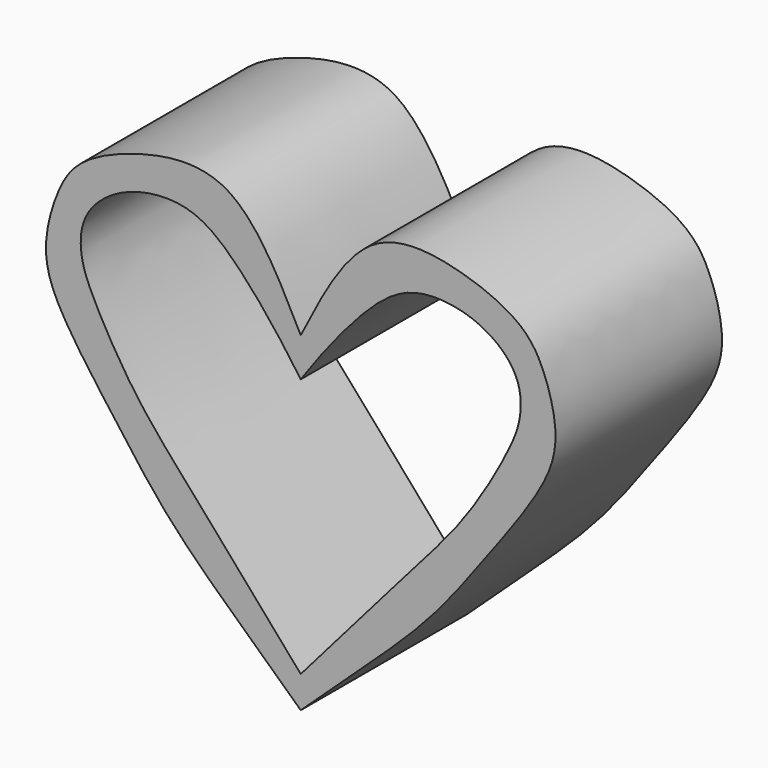
from build123d import *

# Parameters (mm, degrees)
F1_DEPTH = 19.05
F3_DEPTH = 19.05


with BuildPart() as f1:
    # F0 (on Front) → F1 (new body)
    with BuildSketch(Plane.XZ):
        with BuildLine():
            add(Edge.make_bspline(
                [(0, 0), (2.0443595991, 4.0367596063), (5.7245902405, 11.3036838799), (14.5566635162, 10.2342195747), (20.3057890604, 7.7162259112), (22.3038344549, 4.5730914919), (23.6695519647, -0.1279557131), (22.7476999658, -4.6080915527), (17.1359127985, -12.1120721618), (12.0911573216, -19.0200425856), (5.4645438108, -25.1239143288), (1.7672432275, -28.5681990685), (0, -30.2145052701)],
                knots=[0, 0, 0, 0, 0.1299735004, 0.2339766736, 0.3269799391, 0.3980180704, 0.4788738006, 0.5579906062, 0.6719820242, 0.7847444084, 0.897111696, 1, 1, 1, 1], degree=3))
            add(Edge.make_bspline(
                [(0, 0), (-2.0443595991, 4.0367596063), (-5.7245902405, 11.3036838799), (-14.5566635162, 10.2342195747), (-20.3057890604, 7.7162259112), (-22.3038344549, 4.5730914919), (-23.6695519647, -0.1279557131), (-22.7476999658, -4.6080915527), (-17.1359127985, -12.1120721618), (-12.0911573216, -19.0200425856), (-5.4645438108, -25.1239143288), (-1.7672432275, -28.5681990685), (0, -30.2145052701)],
                knots=[0, 0, 0, 0, 0.1299735004, 0.2339766736, 0.3269799391, 0.3980180704, 0.4788738006, 0.5579906062, 0.6719820242, 0.7847444084, 0.897111696, 1, 1, 1, 1], degree=3))
        make_face()
    extrude(amount=-F1_DEPTH)

    # F2 (on Front) → F3 (cut)
    with BuildSketch(Plane.XZ):
        with BuildLine():
            add(Edge.make_bspline(
                [(0, -3.5575705115), (1.844926404, -0.8700449334), (6.3840904769, 4.9635124971), (10.9379341025, 7.4737601431), (16.4893634142, 6.6568418641), (20.0727851145, 3.5291286054), (20.2831598816, -0.1431834731), (18.991934135, -3.3485052389), (15.2669912588, -9.8773472955), (9.9258260736, -15.8489090555), (3.562656956, -23.190331279), (0, -27.3006856441)],
                knots=[0, 0, 0, 0, 0.1416635741, 0.2391022281, 0.3381953872, 0.4297886518, 0.5082637179, 0.5884986552, 0.704999019, 0.8296859316, 1, 1, 1, 1], degree=3))
            add(Edge.make_bspline(
                [(0, -3.5575705115), (-1.844926404, -0.8700449334), (-6.3840904769, 4.9635124971), (-10.9379341025, 7.4737601431), (-16.4893634142, 6.6568418641), (-20.0727851145, 3.5291286054), (-20.2831598816, -0.1431834731), (-18.991934135, -3.3485052389), (-15.2669912588, -9.8773472955), (-9.9258260736, -15.8489090555), (-3.562656956, -23.190331279), (0, -27.3006856441)],
                knots=[0, 0, 0, 0, 0.1416635741, 0.2391022281, 0.3381953872, 0.4297886518, 0.5082637179, 0.5884986552, 0.704999019, 0.8296859316, 1, 1, 1, 1], degree=3))
        make_face()
    extrude(amount=-F3_DEPTH, mode=Mode.SUBTRACT)


solid = f1.part
